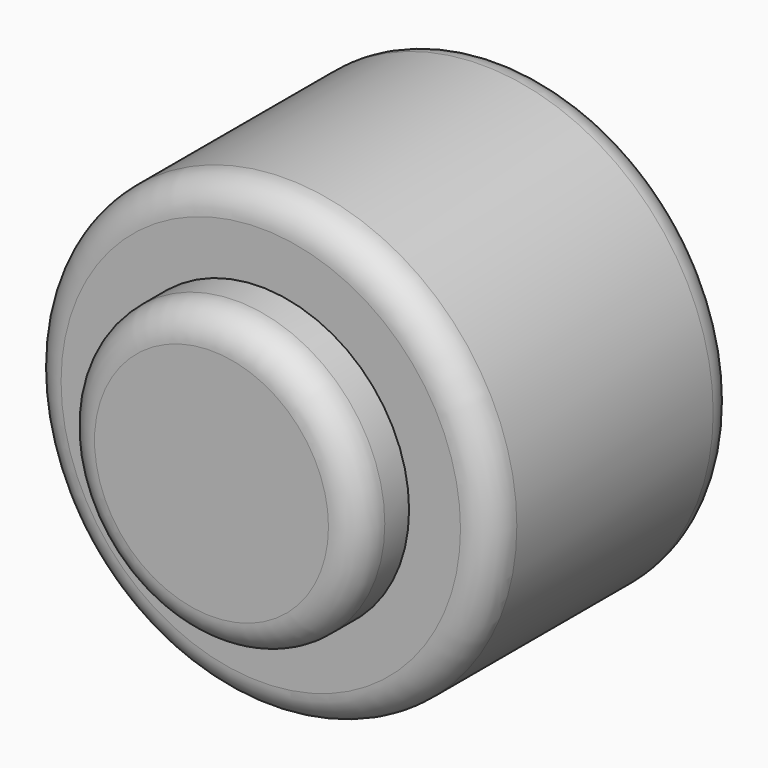
from build123d import *

# Parameters (mm, degrees)
F0_R     = 37.5
F1_DEPTH = 50
F2_R     = 24.069175
F3_DEPTH = 10
F4_R     = 5.08
F5_R     = 5.08


with BuildPart() as f1:
    # F0 (on Front) → F1 (new body)
    with BuildSketch(Plane.XZ):
        Circle(F0_R)
    extrude(amount=F1_DEPTH)

    # F2 (on face) → F3 (join)
    with BuildSketch(Plane.XZ.offset(50)):
        Circle(F2_R)
    extrude(amount=F3_DEPTH)

    # F4
    f4_edges = [f1.edges().sort_by_distance(p)[0] for p in [
        (37.5, -25, 0),
        (-37.5, 0, 0),
        (-37.5, -50, 0),
    ]]
    fillet(f4_edges, radius=F4_R)

    # F5
    f5_edges = [f1.edges().sort_by_distance(p)[0] for p in [
        (-24.069175, -60, 0),
    ]]
    fillet(f5_edges, radius=F5_R)


solid = f1.part
